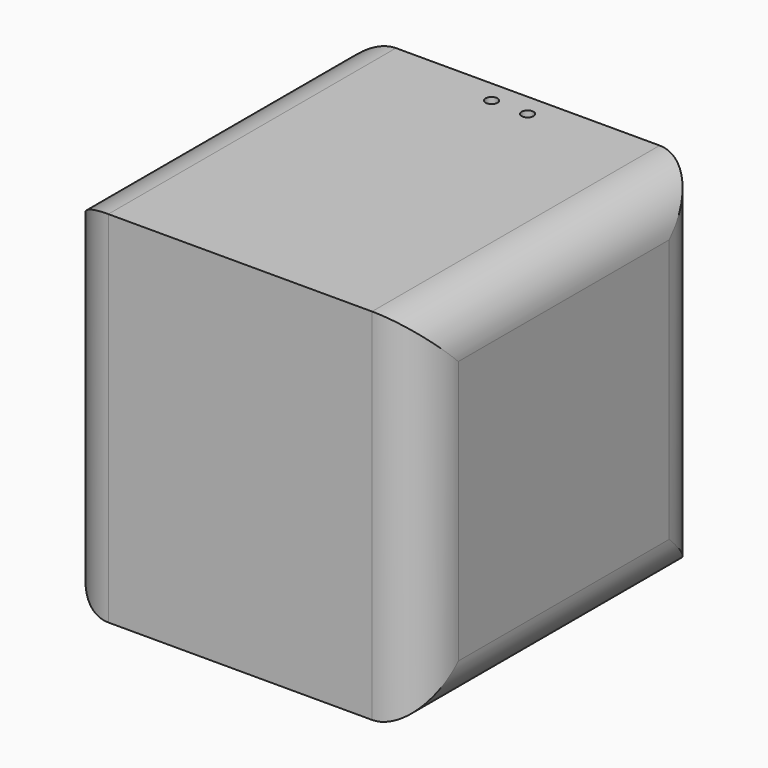
from build123d import *

# Parameters (mm, degrees)
F0_W     = 150
F0_H     = 150
F1_DEPTH = 150.000006
F2_R     = 20
F4_D     = 5


with BuildPart() as f1:
    # F0 (on Top) → F1 (new body)
    with BuildSketch(Plane.XY):
        with Locations((0, 10.636854)):
            Rectangle(F0_W, F0_H)
    extrude(amount=-F1_DEPTH)

    # F2
    f2_edges = [f1.edges().sort_by_distance(p)[0] for p in [
        (-75, 85.636854, -75.000003),
        (-75, -64.363146, -75.000003),
        (-75, 10.636854, 0),
        (-75, 10.636854, -150.000006),
        (75, -64.363146, -75.000003),
        (75, 85.636854, -75.000003),
        (75, 10.636854, 0),
        (75, 10.636854, -150.000006),
    ]]
    fillet(f2_edges, radius=F2_R)

    # F4 (through all)
    with Locations(Plane.XY):
        with Locations((7.5, 76.136854), (-7.569213, 76.206067)):
            Hole(F4_D / 2)


solid = f1.part
